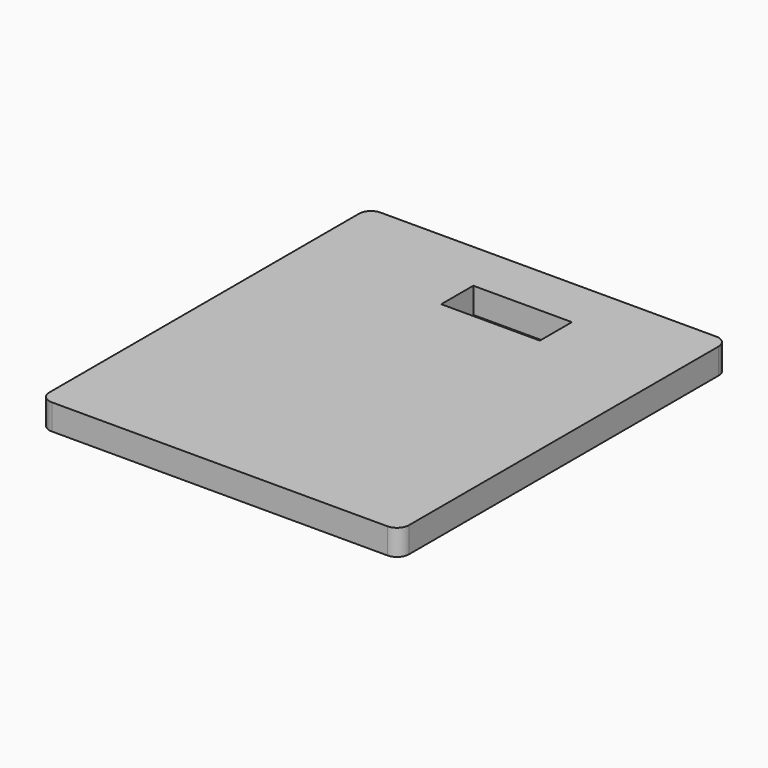
from build123d import *

# Parameters (mm, degrees)
F0_W     = 48.768
F0_H     = 19.812
F1_DEPTH = 12.7


with BuildPart() as f1:
    # F0 (on Top) → F1 (new body)
    with BuildSketch(Plane.XY):
        with BuildLine():
            Line((122.131417, 170.820257), (-43.859962, 170.820257))
            ThreePointArc((-43.859962, 170.820257), (-48.03494, 169.090925), (-49.764272, 164.915947))
            Line((-49.764272, 164.915947), (-49.764272, -26.475432))
            ThreePointArc((-49.764272, -26.475432), (-48.03494, -30.65041), (-43.859962, -32.379743))
            Line((-43.859962, -32.379743), (122.131417, -32.379743))
            ThreePointArc((122.131417, -32.379743), (126.306395, -30.65041), (128.035728, -26.475432))
            Line((128.035728, -26.475432), (128.035728, 164.915947))
            ThreePointArc((128.035728, 164.915947), (126.306395, 169.090925), (122.131417, 170.820257))
        make_face()
        with Locations((46.710805, 135.514257)):
            Rectangle(F0_W, F0_H, mode=Mode.SUBTRACT)
    extrude(amount=-F1_DEPTH)


solid = f1.part
